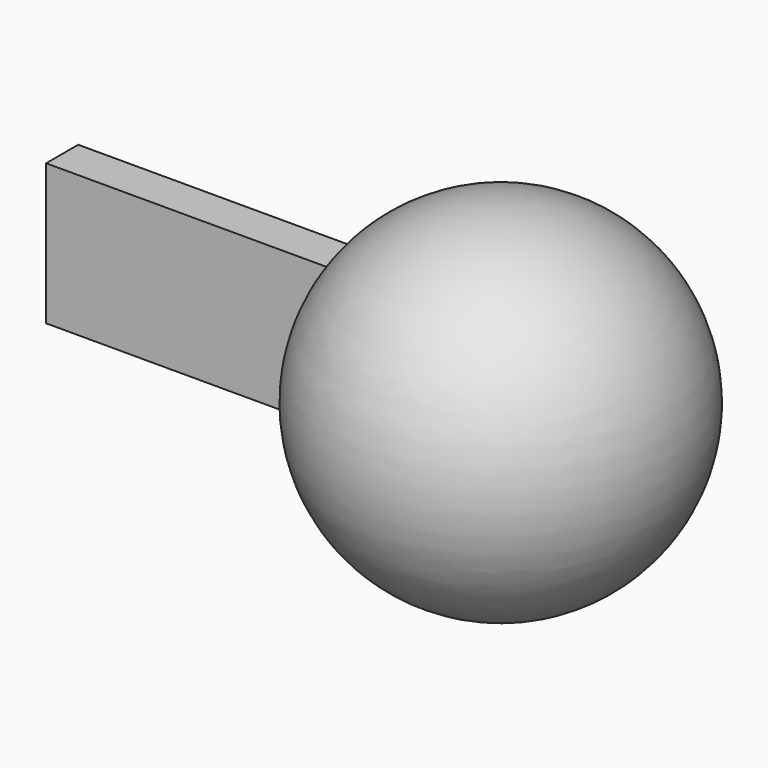
from build123d import *

# Parameters (mm, degrees)
F2_W     = 46.62652
F2_H     = 11.587656
F3_DEPTH = 6.604


with BuildPart() as f1:
    # F0 (on Right) → F1 (revolve)
    with BuildSketch(Plane.YZ):
        with BuildLine():
            Line((0, 56.558792), (0, 0))
            ThreePointArc((0, 0), (28.411235, 28.279396), (0, 56.558792))
        make_face()
    revolve(axis=Axis((0, 0, 28.279396), (0, 0, 1)))


with BuildPart() as f3:
    # F2 (on Front) → F3 (new body)
    with BuildSketch(Plane.XZ):
        with Locations((-51.45471, 21.244035)):
            Rectangle(F2_W, F2_H)
        with Locations((-51.45471, 32.831691)):
            Rectangle(F2_W, F2_H)
    extrude(amount=-F3_DEPTH)


solid = Compound([f1.part, f3.part])
